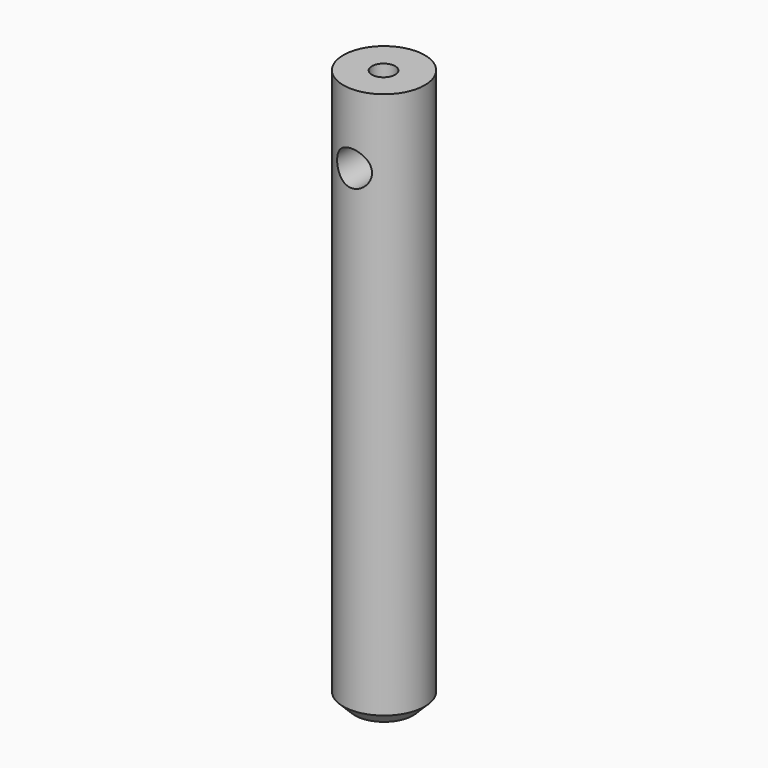
from build123d import *

# Parameters (mm, degrees)
F0_R          = 11.1125
F1_DEPTH      = 152.4
F2_SIZE       = 3.175
F3_R          = 4.7625
F4_DEPTH      = 25.4
F4_DEPTH_BACK = 25.4
F5_R          = 3.175
F6_DEPTH      = 12.7


with BuildPart() as f1:
    # F0 (on Top) → F1 (new body)
    with BuildSketch(Plane.XY):
        with Locations((-1.1552e-06, 0.1656521781)):
            Circle(F0_R)
    extrude(amount=F1_DEPTH)

    # F2
    f2_edges = [f1.edges().sort_by_distance(p)[0] for p in [
        (-11.112501, 0.165652, 0),
    ]]
    chamfer(f2_edges, length=F2_SIZE)

    # F3 (on Front) → F4 (cut, two sides)
    with BuildSketch(Plane.XZ) as f4_sk:
        with Locations((0, 133.35)):
            Circle(F3_R)
    extrude(amount=-F4_DEPTH, mode=Mode.SUBTRACT)
    extrude(f4_sk.sketch, amount=F4_DEPTH_BACK, mode=Mode.SUBTRACT)

    # F5 (on face) → F6 (cut)
    with BuildSketch(Plane.XY.offset(152.4)):
        Circle(F5_R)
    extrude(amount=-F6_DEPTH, mode=Mode.SUBTRACT)


solid = f1.part
